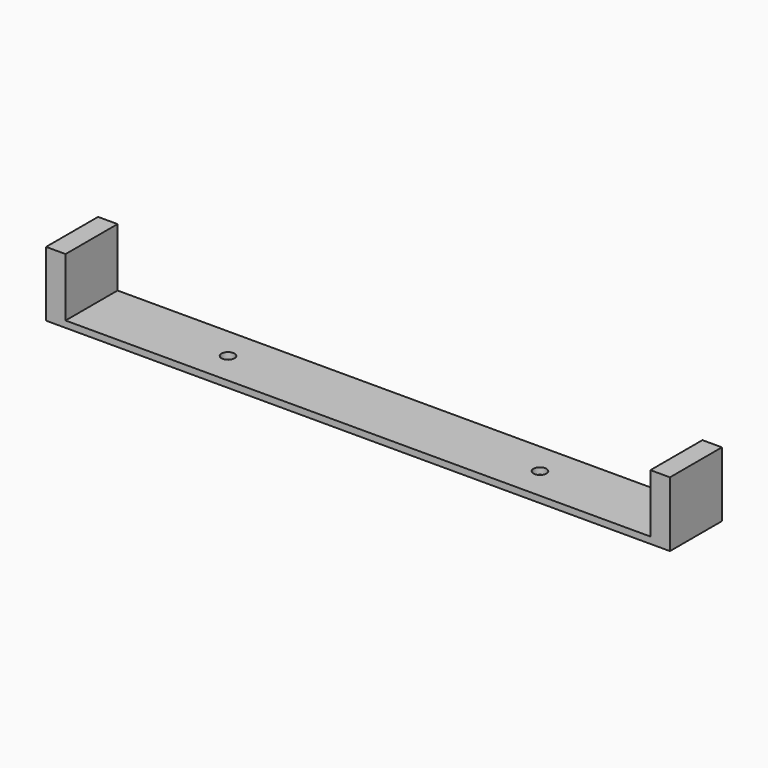
from build123d import *

# Parameters (mm, degrees)
SKETCH_W     = 90
SKETCH_H     = 10
SKETCH_R     = 1
PAD_DEPTH    = 1
SKETCH001_W  = 3
SKETCH001_H  = 10
PAD001_DEPTH = 10


with BuildPart() as part:
    # Sketch → Pad (new body)
    with BuildSketch(Plane.XY):
        Rectangle(SKETCH_W, SKETCH_H)
        with Locations((-24, 0)):
            Circle(SKETCH_R, mode=Mode.SUBTRACT)
        with Locations((24, 0)):
            Circle(SKETCH_R, mode=Mode.SUBTRACT)
    extrude(amount=PAD_DEPTH)

    # Sketch001 → Pad001 (join)
    with BuildSketch(Plane.XY):
        with Locations((-46.5, 0)):
            Rectangle(SKETCH001_W, SKETCH001_H)
        with Locations((46.5, 0)):
            Rectangle(SKETCH001_W, SKETCH001_H)
    extrude(amount=PAD001_DEPTH)


solid = part.part
